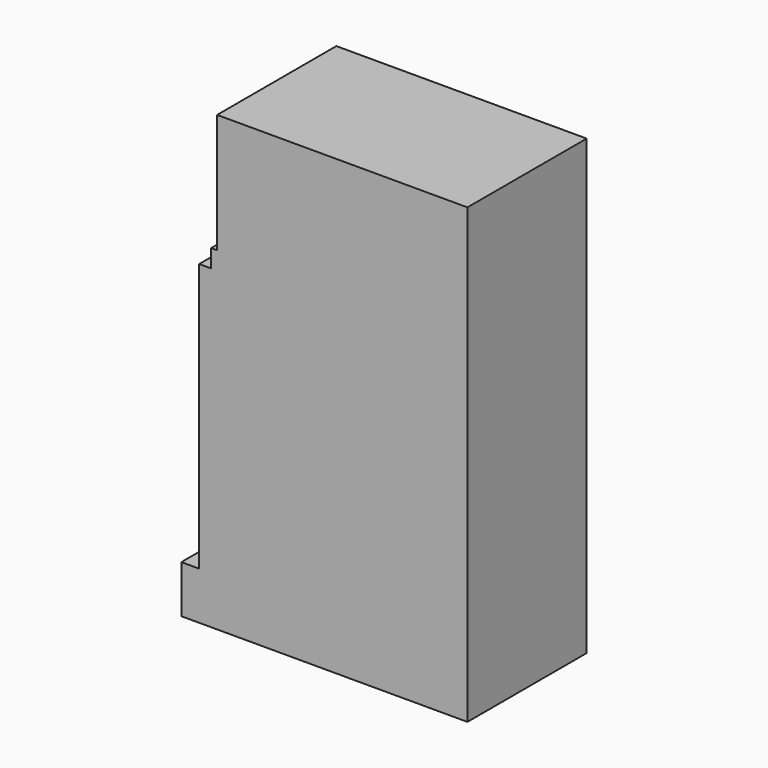
from build123d import *

# Parameters (mm, degrees)
F0_W     = 42
F0_H     = 20
F1_DEPTH = 25


with BuildPart() as f1:
    # F0 (on Front) → F1 (new body)
    with BuildSketch(Plane.XZ):
        Polygon((0, -45), (0, 0), (-43, 0), (-45, 0), (-45, -45), align=None)
        Polygon((-43, 0), (0, 0), (0, 3), (-42, 3), (-43, 3), align=None)
        with Locations((-21, 13)):
            Rectangle(F0_W, F0_H)
        Polygon((0, -53), (0, -45), (-45, -45), (-48, -45), (-48, -53), align=None)
    extrude(amount=F1_DEPTH)


solid = f1.part
